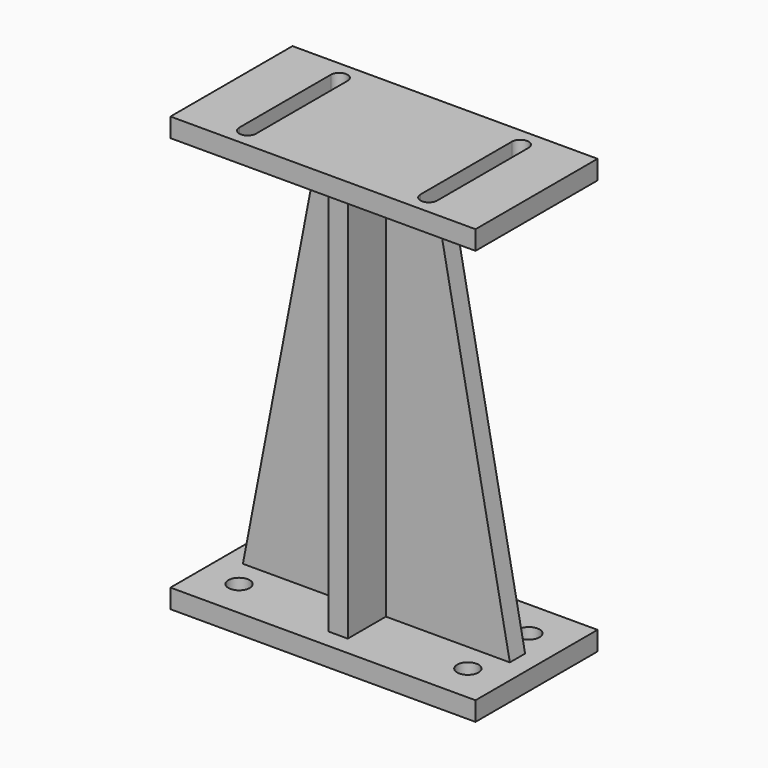
from build123d import *

# Parameters (mm, degrees)
F0_W      = 203.2
F0_H      = 101.6
F1_DEPTH  = 12.7
F2_D      = 14.224
F4_W      = 203.2
F4_H      = 101.6
F5_DEPTH  = 12.7
F6_W      = 12.7
F6_H      = 31.75
F6_H_2    = 12.7
F6_W_2    = 31.75
F7_DEPTH  = 263.525
F9_DEPTH  = 25.4
F11_DEPTH = 12.7


with BuildPart() as f1:
    # F0 (on Top) → F1 (new body)
    with BuildSketch(Plane.XY):
        Rectangle(F0_W, F0_H)
    extrude(amount=-F1_DEPTH)

    # F2 (through all)
    with Locations(Plane.XY):
        with Locations((-76.2, 25.4), (76.2, 25.4), (76.2, -25.4), (-76.2, -25.4)):
            Hole(F2_D / 2)



with BuildPart() as f5:
    # F4 (on offset) → F5 (new body)
    with BuildSketch(Plane(origin=(0, 0, 276.225), x_dir=(1, 0, 0), z_dir=(0, 0, -1))):
        Rectangle(F4_W, F4_H)
    extrude(amount=F5_DEPTH)

    # F8 (on face) → F9 (cut)
    with BuildSketch(Plane.XY.offset(276.225)):
        with BuildLine():
            Line((-54.76875, -12.7), (-54.76875, 12.7))
            ThreePointArc((-54.76875, 12.7), (-60.325, 7.14375), (-65.88125, 12.7))
            Line((-65.88125, 12.7), (-65.88125, -12.7))
            ThreePointArc((-65.88125, -12.7), (-60.325, -7.14375), (-54.76875, -12.7))
        make_face()
        with BuildLine():
            ThreePointArc((-65.88125, 12.7), (-60.325, 7.14375), (-54.76875, 12.7))
            Line((-54.76875, 12.7), (-54.76875, 38.1))
            ThreePointArc((-54.76875, 38.1), (-60.325, 43.65625), (-65.88125, 38.1))
            Line((-65.88125, 38.1), (-65.88125, 12.7))
        make_face()
        with BuildLine():
            Line((-54.76875, -38.1), (-54.76875, -12.7))
            ThreePointArc((-54.76875, -12.7), (-60.325, -7.14375), (-65.88125, -12.7))
            Line((-65.88125, -12.7), (-65.88125, -38.1))
            ThreePointArc((-65.88125, -38.1), (-60.325, -43.65625), (-54.76875, -38.1))
        make_face()
        with BuildLine():
            Line((54.76875, 12.7), (54.76875, -12.7))
            ThreePointArc((54.76875, -12.7), (60.325, -7.14375), (65.88125, -12.7))
            Line((65.88125, -12.7), (65.88125, 12.7))
            ThreePointArc((65.88125, 12.7), (60.325, 7.14375), (54.76875, 12.7))
        make_face()
        with BuildLine():
            ThreePointArc((65.88125, -12.7), (60.325, -7.14375), (54.76875, -12.7))
            Line((54.76875, -12.7), (54.76875, -38.1))
            ThreePointArc((54.76875, -38.1), (60.325, -43.65625), (65.88125, -38.1))
            Line((65.88125, -38.1), (65.88125, -12.7))
        make_face()
        with BuildLine():
            Line((54.76875, 38.1), (54.76875, 12.7))
            ThreePointArc((54.76875, 12.7), (60.325, 7.14375), (65.88125, 12.7))
            Line((65.88125, 12.7), (65.88125, 38.1))
            ThreePointArc((65.88125, 38.1), (60.325, 43.65625), (54.76875, 38.1))
        make_face()
    extrude(amount=-F9_DEPTH, mode=Mode.SUBTRACT)


with BuildPart() as f7:
    # F6 (on face) → F7 (new body, through all)
    with BuildSketch(Plane.XY):
        with Locations((0, 22.225)):
            Rectangle(F6_W, F6_H)
        Rectangle(F6_W, F6_H_2)
        with Locations((-22.225, 0)):
            Rectangle(F6_W_2, F6_H_2)
        with Locations((22.225, 0)):
            Rectangle(F6_W_2, F6_H_2)
        with Locations((0, -22.225)):
            Rectangle(F6_W, F6_H)
    extrude(amount=F7_DEPTH)


with BuildPart() as f1_1:
    add(f1.part)

    add(f5.part)  # F11 merges F5

    add(f7.part)  # F11 merges F7
    # F10 (on face) → F11 (join)
    with BuildSketch(Plane.XZ.offset(6.35)):
        Polygon((88.9, 0), (38.1, 263.5250000004), (38.1, 7e-10), align=None)
        Polygon((-88.9, 0), (-38.1, 0), (-38.1, 263.5250000004), align=None)
    extrude(amount=-F11_DEPTH)


solid = f1_1.part
